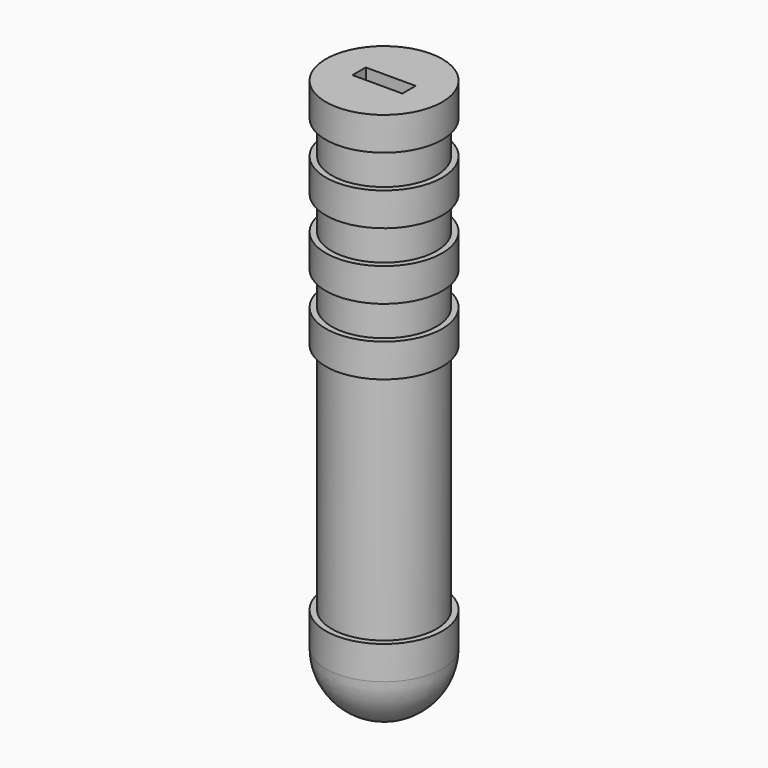
from build123d import *

# Parameters (mm, degrees)
F2_W     = 15
F2_H     = 5
F3_DEPTH = 30


with BuildPart() as f1:
    # F0 (on Front) → F1 (revolve)
    with BuildSketch(Plane.XZ):
        with BuildLine():
            Line((0, 150), (0, -17.5))
            ThreePointArc((0, -17.5), (12.374369, -12.374369), (17.5, 0))
            Line((17.5, 0), (17.5, 10))
            Line((17.5, 10), (15.75, 10))
            Line((15.75, 10), (15.75, 80))
            Line((15.75, 80), (17.5, 80))
            Line((17.5, 80), (17.5, 90))
            Line((17.5, 90), (15.75, 90))
            Line((15.75, 90), (15.75, 100))
            Line((15.75, 100), (17.5, 100))
            Line((17.5, 100), (17.5, 110))
            Line((17.5, 110), (15.75, 110))
            Line((15.75, 110), (15.75, 120))
            Line((15.75, 120), (17.5, 120))
            Line((17.5, 120), (17.5, 130))
            Line((17.5, 130), (15.75, 130))
            Line((15.75, 130), (15.75, 140))
            Line((15.75, 140), (17.5, 140))
            Line((17.5, 140), (17.5, 150))
            Line((17.5, 150), (0, 150))
        make_face()
    revolve(axis=Axis((0, 0, 66.25), (0, 0, 1)))

    # F2 (on face) → F3 (cut)
    with BuildSketch(Plane.XY.offset(150)):
        Rectangle(F2_W, F2_H)
    extrude(amount=-F3_DEPTH, mode=Mode.SUBTRACT)


solid = f1.part
